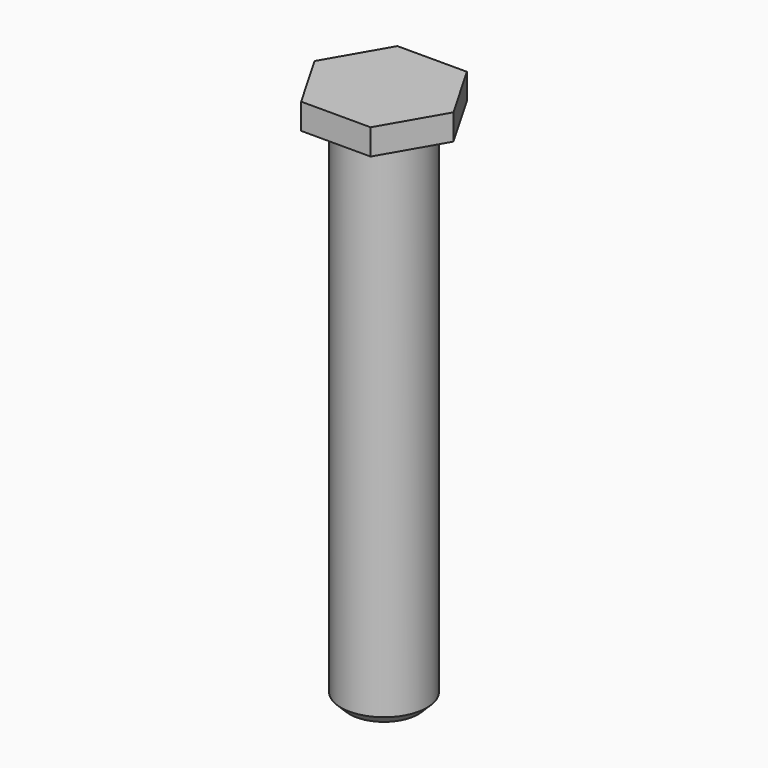
from build123d import *

# Parameters (mm, degrees)
F0_R     = 5
F1_DEPTH = 60
F2_SIZE2 = 1
F2_SIZE  = 1
F4_DEPTH = 3


with BuildPart() as f1:
    # F0 (on Top) → F1 (new body)
    with BuildSketch(Plane.XY):
        Circle(F0_R)
    extrude(amount=F1_DEPTH)

    # F2
    f2_edges = [f1.edges().sort_by_distance(p)[0] for p in [
        (-5, 0, 0),
    ]]
    chamfer(f2_edges, length=F2_SIZE, length2=F2_SIZE2)

    # F3 (on face) → F4 (join)
    with BuildSketch(Plane.XY.offset(60)):
        Polygon((8.082904, 0), (4.041452, 7), (-4.041452, 7), (-8.082904, 0), (-4.041452, -7), (4.041452, -7), align=None)
    extrude(amount=F4_DEPTH)


solid = f1.part
